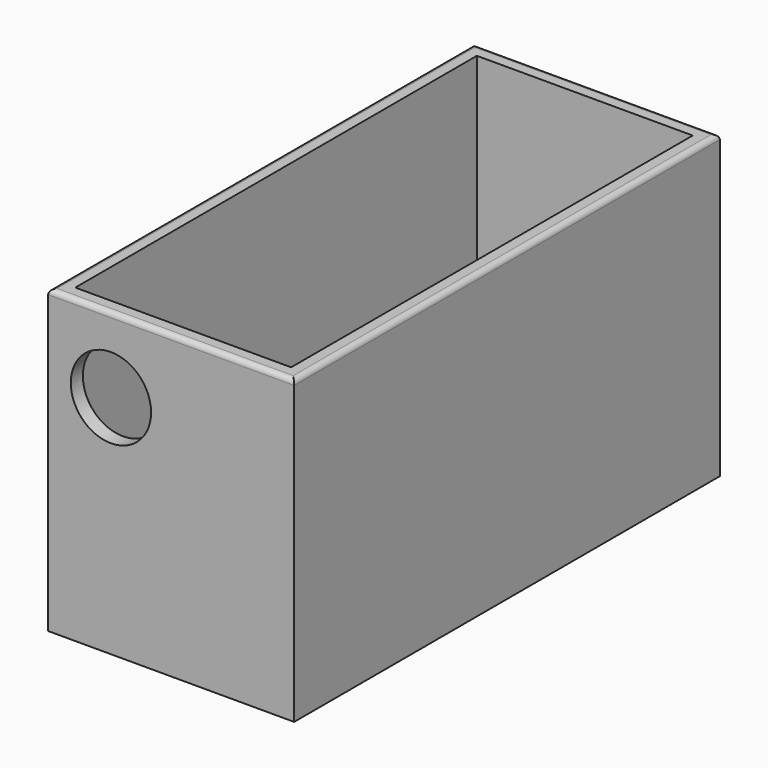
from build123d import *

# Parameters (mm, degrees)
SKETCH_W        = 49
SKETCH_H        = 106
PAD_DEPTH       = 60
SKETCH001_W     = 43
SKETCH001_H     = 100
POCKET_DEPTH    = 60.001
FILLET_R        = 1
SKETCH002_R     = 8
POCKET001_DEPTH = 3


with BuildPart() as part:
    # Sketch → Pad (new body)
    with BuildSketch(Plane.XY):
        Rectangle(SKETCH_W, SKETCH_H)
    extrude(amount=PAD_DEPTH)

    # Sketch001 → Pocket (cut, through all)
    with BuildSketch(Plane.XY.offset(60)):
        Rectangle(SKETCH001_W, SKETCH001_H)
    extrude(amount=-POCKET_DEPTH, mode=Mode.SUBTRACT)

    # Fillet
    fillet_edges = [part.edges().sort_by_distance(p)[0] for p in [
        (0, 53, 60),
        (24.5, 0, 60),
        (-24.5, 0, 60),
        (0, -53, 60),
    ]]
    fillet(fillet_edges, radius=FILLET_R)

    # Sketch002 → Pocket001 (cut)
    with BuildSketch(Plane.XZ.offset(53)):
        with Locations((-12, 45)):
            Circle(SKETCH002_R)
    extrude(amount=-POCKET001_DEPTH, mode=Mode.SUBTRACT)


solid = part.part
